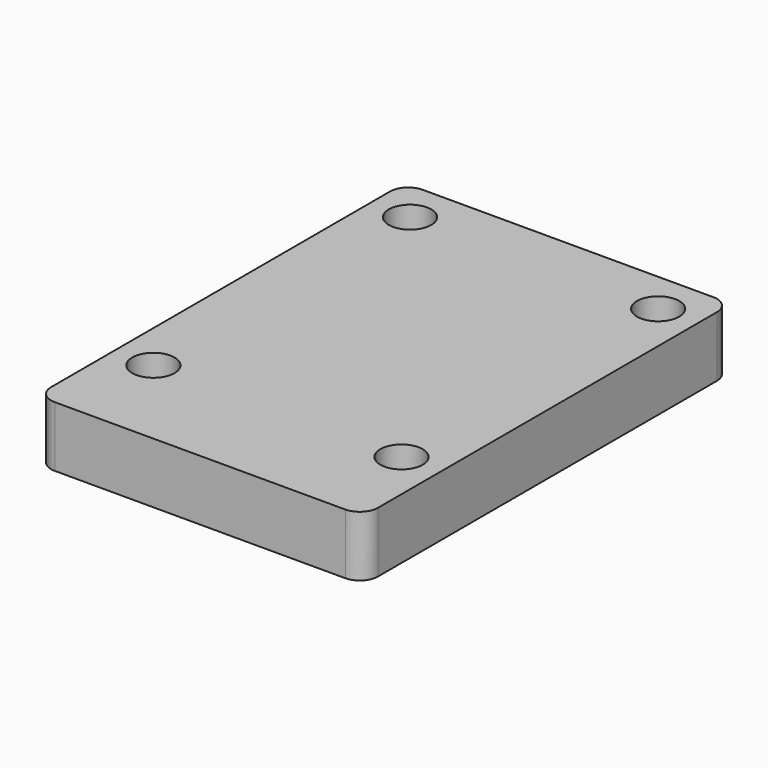
from build123d import *

# Parameters (mm, degrees)
SKETCH_W      = 54
SKETCH_H      = 76
SKETCH_R      = 3.5
EXTRUDE_DEPTH = 10
FILLET_R      = 3


with BuildPart() as part:
    # Sketch → Extrude (new body)
    with BuildSketch(Plane.XY):
        Rectangle(SKETCH_W, SKETCH_H)
        with Locations((-20.5, 31)):
            Circle(SKETCH_R, mode=Mode.SUBTRACT)
        with Locations((20.5, 31)):
            Circle(SKETCH_R, mode=Mode.SUBTRACT)
        with Locations((-20.5, -22)):
            Circle(SKETCH_R, mode=Mode.SUBTRACT)
        with Locations((20.5, -22)):
            Circle(SKETCH_R, mode=Mode.SUBTRACT)
    extrude(amount=EXTRUDE_DEPTH)

    # Fillet
    fillet_edges = [part.edges().sort_by_distance(p)[0] for p in [
        (-27, 38, 5),
        (27, 38, 5),
        (27, -38, 5),
        (-27, -38, 5),
    ]]
    fillet(fillet_edges, radius=FILLET_R)


solid = part.part
